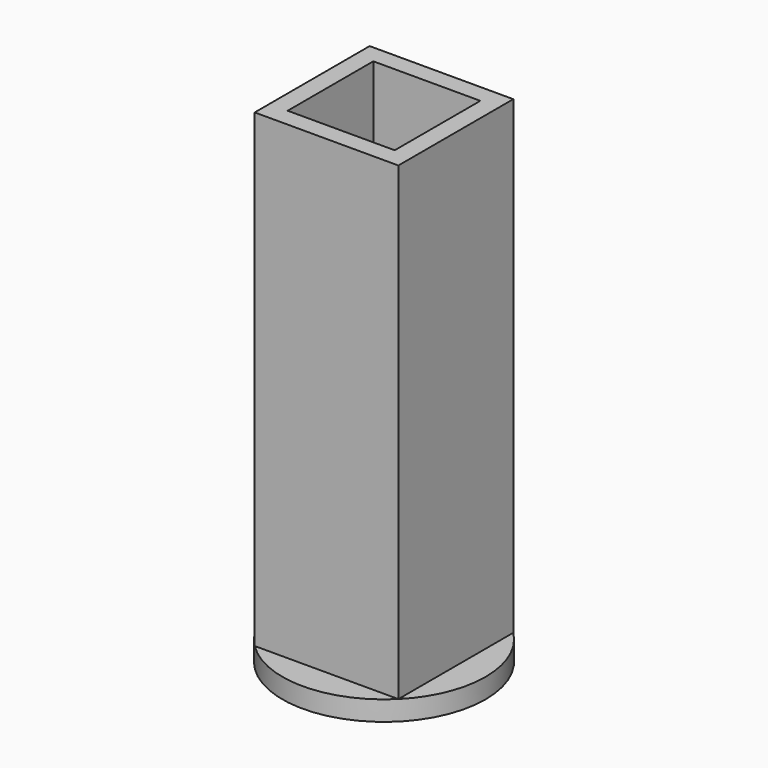
from build123d import *

# Parameters (mm, degrees)
F0_R     = 2.6035
F0_W     = 2.7432
F0_H     = 2.7432
F1_DEPTH = 0.508
F2_W     = 3.681906
F2_H     = 3.681906
F2_W_2   = 2.7432
F2_H_2   = 2.7432
F3_DEPTH = 12.0396


with BuildPart() as f1:
    # F0 (on Top) → F1 (new body)
    with BuildSketch(Plane.XY):
        Circle(F0_R)
        Rectangle(F0_W, F0_H, mode=Mode.SUBTRACT)
    extrude(amount=F1_DEPTH)

    # F2 (on face) → F3 (join)
    with BuildSketch(Plane.XY.offset(0.508)):
        Rectangle(F2_W, F2_H)
        Rectangle(F2_W_2, F2_H_2, mode=Mode.SUBTRACT)
    extrude(amount=F3_DEPTH)


solid = f1.part
